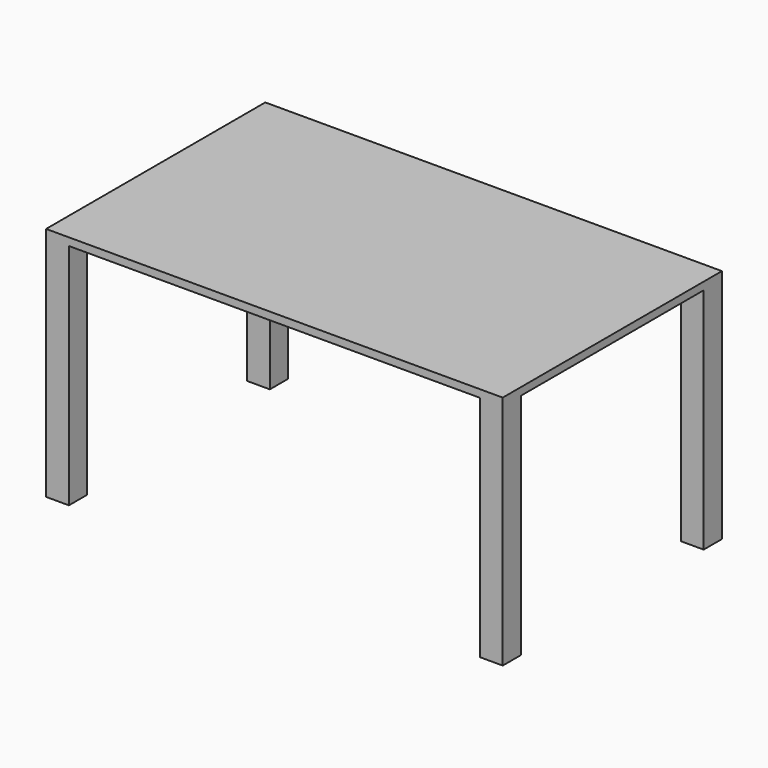
from build123d import *

# Parameters (mm, degrees)
F1_W     = 1500
F1_H     = 900
F2_DEPTH = 25
F3_W     = 75
F3_H     = 75
F4_DEPTH = 750


with BuildPart() as f2:
    # F1 (on offset) → F2 (new body)
    with BuildSketch(Plane.XY.offset(750)):
        Rectangle(F1_W, F1_H)
    extrude(amount=F2_DEPTH)

    # F3 (on face) → F4 (join, through all)
    with BuildSketch(Plane(origin=(0, 0, 750), x_dir=(1, 0, 0), z_dir=(0, 0, -1))):
        with Locations((-712.5, -412.5)):
            Rectangle(F3_W, F3_H)
        with Locations((-712.5, 412.5)):
            Rectangle(F3_W, F3_H)
        with Locations((712.5, 412.5)):
            Rectangle(F3_W, F3_H)
        with Locations((712.5, -412.5)):
            Rectangle(F3_W, F3_H)
    extrude(amount=F4_DEPTH)


solid = f2.part
